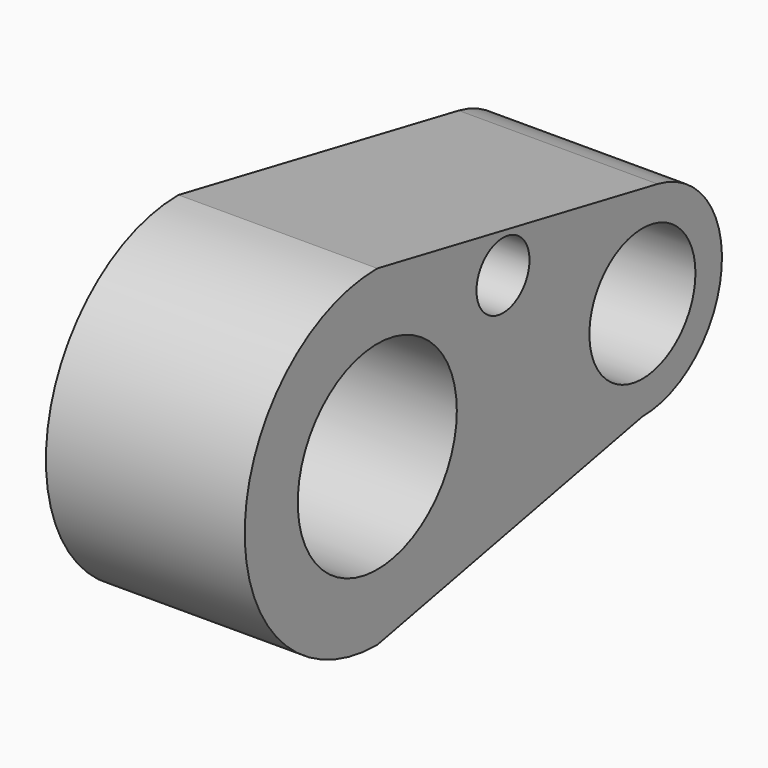
from build123d import *

# Parameters (mm, degrees)
F0_R     = 15
F1_DEPTH = 30
F2_R     = 10
F3_DEPTH = 30.001
F4_R     = 5
F5_DEPTH = 25


with BuildPart() as f1:
    # F0 (on Right) → F1 (new body)
    with BuildSketch(Plane.YZ):
        with BuildLine():
            Line((52.862198, 14.724396), (0, 25))
            ThreePointArc((0, 25), (-25, 0), (0, -25))
            Line((0, -25), (50, -15))
            ThreePointArc((50, -15), (64.93094, -1.437718), (52.862198, 14.724396))
        make_face()
        Circle(F0_R, mode=Mode.SUBTRACT)
    extrude(amount=F1_DEPTH)

    # F2 (on face) → F3 (cut, through all)
    with BuildSketch(Plane.YZ.offset(30)):
        with Locations((50, 0)):
            Circle(F2_R)
    extrude(amount=-F3_DEPTH, mode=Mode.SUBTRACT)

    # F4 (on face) → F5 (cut)
    with BuildSketch(Plane.YZ.offset(30)):
        with Locations((23.703395, 14.439134)):
            Circle(F4_R)
    extrude(amount=-F5_DEPTH, mode=Mode.SUBTRACT)


solid = f1.part
